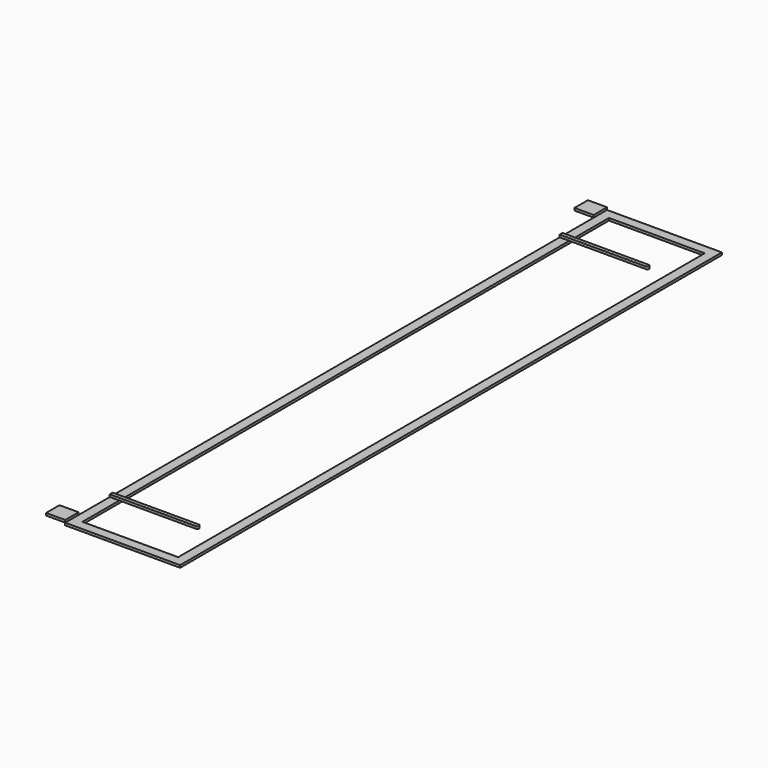
from build123d import *

# Parameters (mm, degrees)
F0_W     = 1219.2
F0_H     = 7188.2
F0_W_2   = 1016
F0_H_2   = 6985
F1_DEPTH = 25.4
F2_W     = 203.2
F2_H     = 177.8
F3_DEPTH = 25.4


with BuildPart() as f1:
    # F0 (on Top) → F1 (new body)
    with BuildSketch(Plane.XY):
        with Locations((609.6, -3594.1)):
            Rectangle(F0_W, F0_H)
        with Locations((609.6, -3594.1)):
            Rectangle(F0_W_2, F0_H_2, mode=Mode.SUBTRACT)
    extrude(amount=F1_DEPTH)


with BuildPart() as f3:
    # F2 (on face) → F3 (new body)
    with BuildSketch(Plane.XY.offset(25.4)):
        with Locations((-101.6, -88.9)):
            Rectangle(F2_W, F2_H)
    extrude(amount=F3_DEPTH)


with BuildPart() as f3b:
    # F2 (on face) → F3, piece 2 (new body)
    with BuildSketch(Plane.XY.offset(25.4)):
        with Locations((-101.6, -7099.3)):
            Rectangle(F2_W, F2_H)
    extrude(amount=F3_DEPTH)


with BuildPart() as f3c:
    # F2 (on face) → F3, piece 3 (new body)
    with BuildSketch(Plane.XY.offset(25.4)):
        with BuildLine():
            Line((914.4, -590.55), (0, -590.55))
            Line((0, -590.55), (0, -628.65))
            Line((0, -628.65), (914.4, -628.65))
            ThreePointArc((914.4, -628.65), (895.35, -609.6), (914.4, -590.55))
        make_face()
        with BuildLine():
            ThreePointArc((933.45, -609.6), (927.8703841816, -596.1296158184), (914.4, -590.55))
            Line((914.4, -590.55), (914.4, -628.65))
            ThreePointArc((914.4, -628.65), (927.8703841816, -623.0703841816), (933.45, -609.6))
        make_face()
        with BuildLine():
            Line((914.4, -628.65), (914.4, -590.55))
            ThreePointArc((914.4, -590.55), (895.35, -609.6), (914.4, -628.65))
        make_face()
    extrude(amount=F3_DEPTH)


with BuildPart() as f3d:
    # F2 (on face) → F3, piece 4 (new body)
    with BuildSketch(Plane.XY.offset(25.4)):
        with BuildLine():
            Line((914.4, -6559.55), (0, -6559.55))
            Line((0, -6559.55), (0, -6597.65))
            Line((0, -6597.65), (914.4, -6597.65))
            ThreePointArc((914.4, -6597.65), (895.35, -6578.6), (914.4, -6559.55))
        make_face()
        with BuildLine():
            ThreePointArc((933.45, -6578.6), (927.8703841816, -6565.1296158184), (914.4, -6559.55))
            Line((914.4, -6559.55), (914.4, -6597.65))
            ThreePointArc((914.4, -6597.65), (927.8703841816, -6592.0703841816), (933.45, -6578.6))
        make_face()
        with BuildLine():
            Line((914.4, -6597.65), (914.4, -6559.55))
            ThreePointArc((914.4, -6559.55), (895.35, -6578.6), (914.4, -6597.65))
        make_face()
    extrude(amount=F3_DEPTH)


solid = Compound([f1.part, f3.part, f3b.part, f3c.part, f3d.part])
